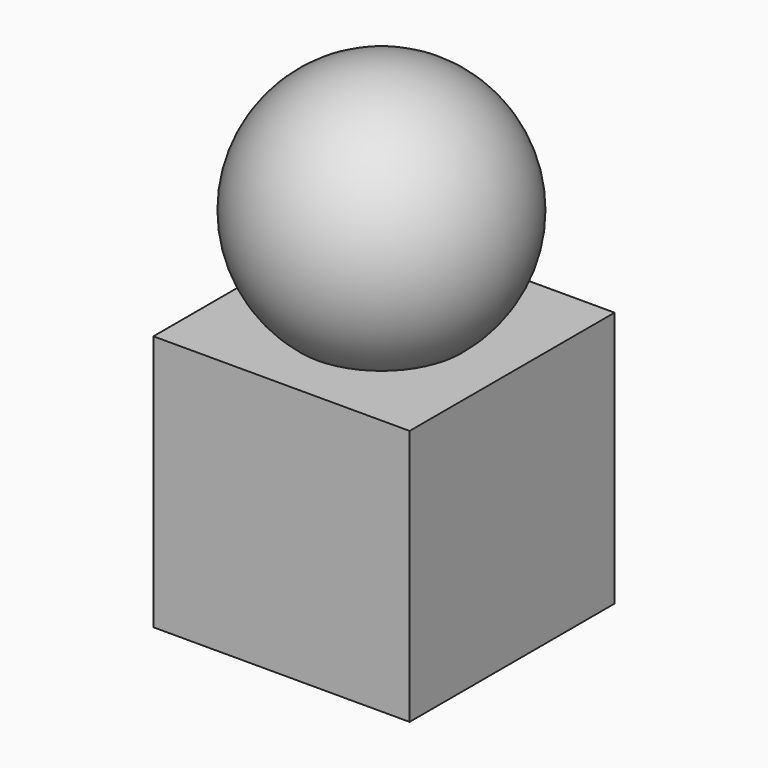
from build123d import *

# Parameters (mm, degrees)
BOX_W     = 10
BOX_H     = 10
BOX_DEPTH = 10


with BuildPart() as cube:
    # Box → Box (new body)
    with BuildSketch(Plane.XY):
        with Locations((5, 5)):
            Rectangle(BOX_W, BOX_H)
    extrude(amount=BOX_DEPTH)


with BuildPart() as sphere:
    # Sphere → Sphere (revolve)
    with BuildSketch(Plane(origin=(4.9, 5, 13.9), x_dir=(1, 0, 0), z_dir=(0, -1, 0))):
        with BuildLine():
            ThreePointArc((0, -5), (5, 0), (0, 5))
            Line((0, 5), (0, -5))
        make_face()
    revolve(axis=Axis((4.9, 5, 13.9), (0, 0, 1)))


solid = Compound([cube.part, sphere.part])
